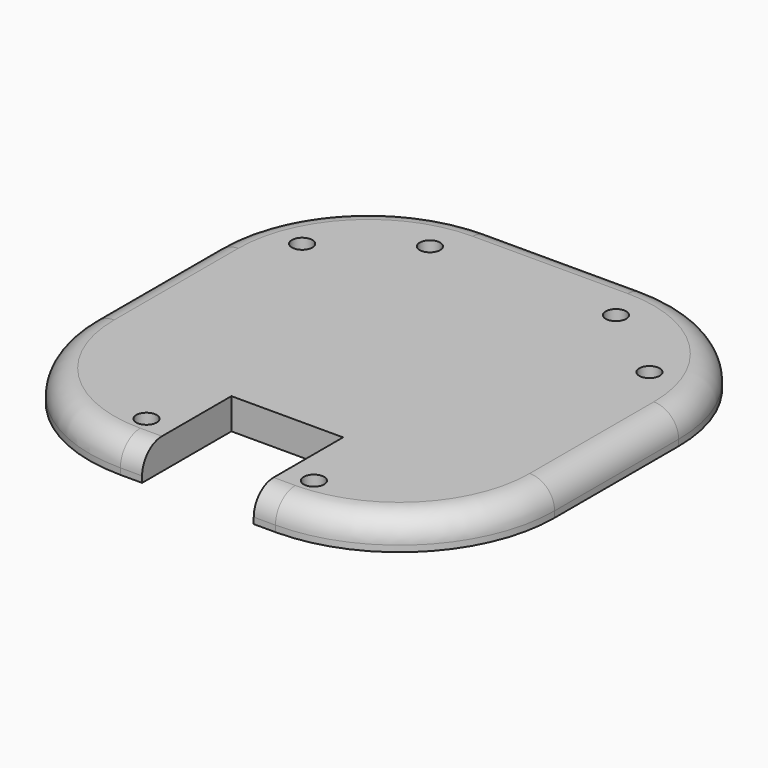
from build123d import *

# Parameters (mm, degrees)
F1_DEPTH = 5
F2_R     = 4
F4_D     = 3.3
F5_W     = 18
F5_H     = 18
F6_DEPTH = 5.001
F8_D     = 3.3


with BuildPart() as f1:
    # F0 (on Top) → F1 (new body)
    with BuildSketch(Plane.XY):
        with BuildLine():
            Line((12.5, 37.5), (-12.5, 37.5))
            ThreePointArc((-12.5, 37.5), (-30.1776695297, 30.1776695297), (-37.5, 12.5))
            Line((-37.5, 12.5), (-37.5, -12.5))
            ThreePointArc((-37.5, -12.5), (-30.1776695297, -30.1776695297), (-12.5, -37.5))
            Line((-12.5, -37.5), (12.5, -37.5))
            ThreePointArc((12.5, -37.5), (30.1776695297, -30.1776695297), (37.5, -12.5))
            Line((37.5, -12.5), (37.5, 12.5))
            ThreePointArc((37.5, 12.5), (30.1776695297, 30.1776695297), (12.5, 37.5))
        make_face()
    extrude(amount=F1_DEPTH)

    # F2
    f2_edges = [f1.edges().sort_by_distance(p)[0] for p in [
        (37.5, 0, 5),
        (30.17767, 30.17767, 5),
        (0, 37.5, 5),
        (-30.17767, 30.17767, 5),
        (-37.5, 0, 5),
        (-30.17767, -30.17767, 5),
        (0, -37.5, 5),
        (30.17767, -30.17767, 5),
    ]]
    fillet(f2_edges, radius=F2_R)

    # F4 (through all)
    with Locations(Plane.XY.offset(5)):
        with Locations((-28, 18.5), (28, 18.5), (-13.5, -31), (13.5, -31)):
            Hole(F4_D / 2)

    # F5 (on face) → F6 (cut, through all)
    with BuildSketch(Plane.XY.offset(5)):
        with Locations((0, -28.5)):
            Rectangle(F5_W, F5_H)
    extrude(amount=-F6_DEPTH, mode=Mode.SUBTRACT)

    # F8 (through all)
    with Locations(Plane.XY.offset(5)):
        with Locations((-15, 28), (15, 28)):
            Hole(F8_D / 2)


solid = f1.part
